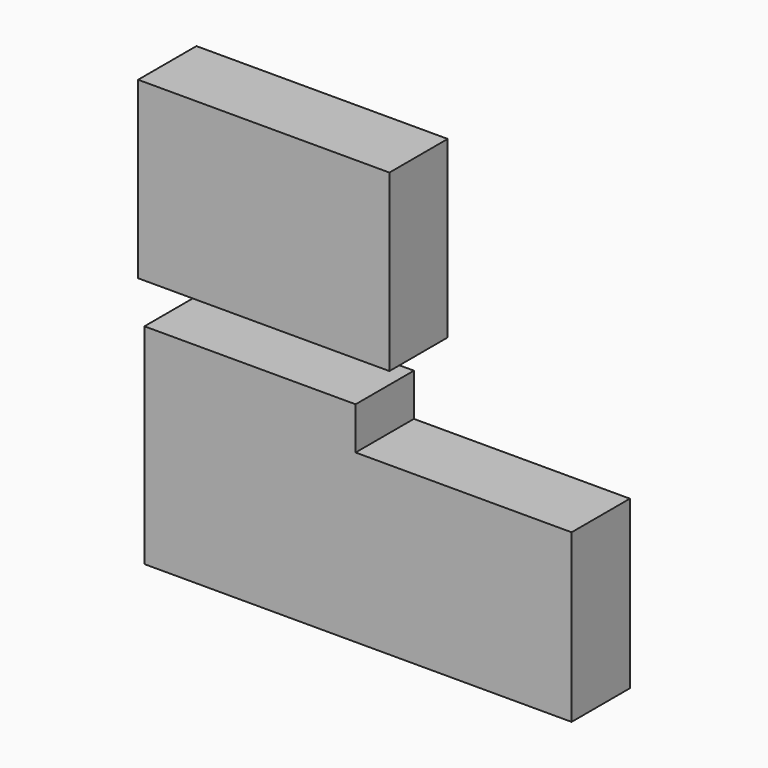
from build123d import *

# Parameters (mm, degrees)
F0_W     = 87.596503
F0_H     = 60.916185
F1_DEPTH = 25.4
F2_W     = 75.285435
F2_H     = 58.18655
F3_DEPTH = 25.4


with BuildPart() as f1:
    # F0 (on Front) → F1 (new body)
    with BuildSketch(Plane.XZ):
        with Locations((-32.008857, 44.483959)):
            Rectangle(F0_W, F0_H)
    extrude(amount=F1_DEPTH)


with BuildPart() as f3:
    # F2 (on Front) → F3 (new body)
    with BuildSketch(Plane.XZ):
        Polygon((-73.600315, 0), (-73.600315, -72.981529), (0, -72.981529), (0, -14.794979), (0, 0), align=None)
        with Locations((37.642717, -43.888254)):
            Rectangle(F2_W, F2_H)
    extrude(amount=F3_DEPTH)


solid = Compound([f1.part, f3.part])
